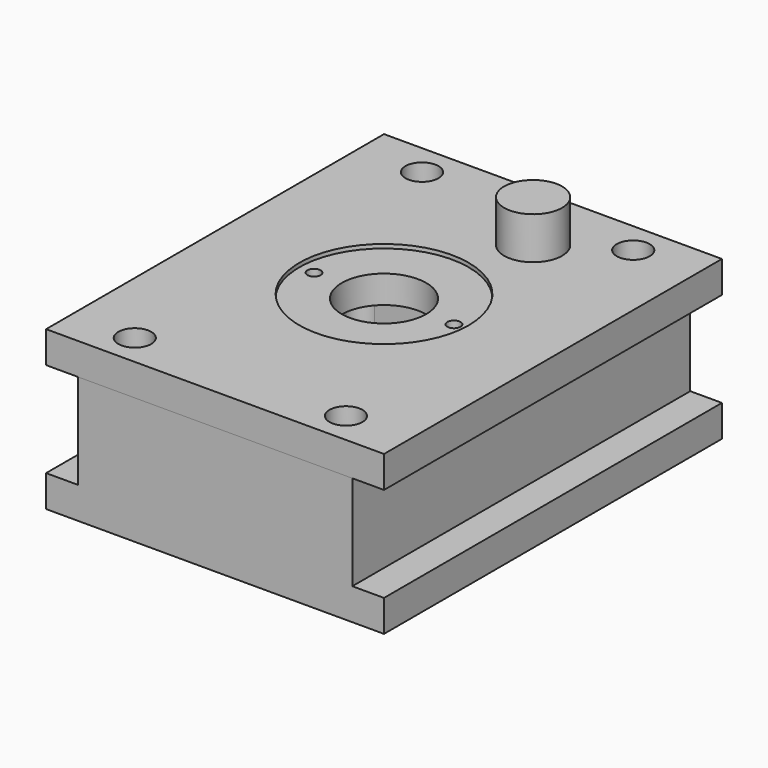
from build123d import *

# Parameters (mm, degrees)
F1_DEPTH        = 127
F3_DEPTH        = 76.2
F5_DEPTH        = 6.35
F6_W            = 203.2
F6_H            = 254
F16_DEPTH       = 19.05
F17_R           = 50.927
F7_DEPTH        = 2.38125
F8_R            = 25.4
F18_DEPTH       = 25.4
F19_D           = 6.35
F19_DEPTH       = 15.875
F19_CBORE_D     = 7.9375
F19_CBORE_DEPTH = 9.525
F19_TIP         = 1.9077324654
F11_D           = 13.49375
F11_CBORE_D     = 19.812
F11_CBORE_DEPTH = 12.954
F13_D           = 12.7
F13_DEPTH       = 19.05
F13_TIP         = 3.8154649308
F20_R           = 17.4385504091
F14_DEPTH       = 25.4


with BuildPart() as f1:
    # F0 (on Front) → F1 (new body, symmetric)
    with BuildSketch(Plane.XZ):
        Polygon((-101.6, 19.05), (-101.6, 0), (101.6, 0), (101.6, 19.05), (82.55, 19.05), (82.55, 76.2), (-82.55, 76.2), (-82.55, 19.05), align=None)
    extrude(amount=F1_DEPTH, both=True)

    # F2 (on face) → F3 (cut)
    with BuildSketch(Plane(origin=(0, 0, 0), x_dir=(1, 0, 0), z_dir=(0, 0, -1))):
        with BuildLine():
            Line((66.675, 76.2), (-66.675, 76.2))
            ThreePointArc((-66.675, 76.2), (-73.4101920908, 73.4101920908), (-76.2, 66.675))
            Line((-76.2, 66.675), (-76.2, -66.675))
            ThreePointArc((-76.2, -66.675), (-73.4101920908, -73.4101920908), (-66.675, -76.2))
            Line((-66.675, -76.2), (66.675, -76.2))
            ThreePointArc((66.675, -76.2), (73.4101920908, -73.4101920908), (76.2, -66.675))
            Line((76.2, -66.675), (76.2, 66.675))
            ThreePointArc((76.2, 66.675), (73.4101920908, 73.4101920908), (66.675, 76.2))
        make_face()
    extrude(amount=-F3_DEPTH, mode=Mode.SUBTRACT)

    # F4 (on face) → F5 (cut)
    with BuildSketch(Plane.XY.offset(76.2)):
        with BuildLine():
            ThreePointArc((76.2, 73.025), (73.4101920908, 79.7601920908), (66.675, 82.55))
            Line((66.675, 82.55), (-66.675, 82.55))
            ThreePointArc((-66.675, 82.55), (-73.4101920908, 79.7601920908), (-76.2, 73.025))
            Line((-76.2, 73.025), (-76.2, -73.025))
            ThreePointArc((-76.2, -73.025), (-73.4101920908, -79.7601920908), (-66.675, -82.55))
            Line((-66.675, -82.55), (66.675, -82.55))
            ThreePointArc((66.675, -82.55), (73.4101920908, -79.7601920908), (76.2, -73.025))
            Line((76.2, -73.025), (76.2, 73.025))
        make_face()
    extrude(amount=-F5_DEPTH, mode=Mode.SUBTRACT)

    # F13
    with Locations(Plane.XY.offset(76.2)):
        with Locations((-63.6740624905, 107.6357588172), (63.5, 107.95), (63.9280825853, -106.8166941404), (-63.5, -107.95)):
            Hole(F13_D / 2, depth=F13_DEPTH)
            with Locations((0, 0, -(F13_DEPTH + F13_TIP / 2))):  # 118° drill point
                Cone(0, F13_D / 2, F13_TIP, mode=Mode.SUBTRACT)


with BuildPart() as f16:
    # F6 (on face) → F16 (new body)
    with BuildSketch(Plane.XY.offset(76.2)):
        Rectangle(F6_W, F6_H)
    extrude(amount=F16_DEPTH)

    # F17 (on face) → F7 (cut)
    with BuildSketch(Plane.XY.offset(95.25)):
        Circle(F17_R)
    extrude(amount=-F7_DEPTH, mode=Mode.SUBTRACT)

    # F8 (on face) → F18 (cut)
    with BuildSketch(Plane.XY.offset(92.86875)):
        Circle(F8_R)
    extrude(amount=-F18_DEPTH, mode=Mode.SUBTRACT)

    # F19
    with Locations(Plane.XY.offset(92.86875)):
        with Locations((42.06875, 0), (-42.06875, 0)):
            CounterBoreHole(F19_D / 2, F19_CBORE_D / 2, F19_CBORE_DEPTH, depth=F19_DEPTH)
            with Locations((0, 0, -(F19_DEPTH + F19_TIP / 2))):  # 118° drill point
                Cone(0, F19_D / 2, F19_TIP, mode=Mode.SUBTRACT)

    # F11 (through all)
    with Locations(Plane.XY.offset(95.25)):
        with Locations((-63.5, 107.95), (63.5, 107.95), (63.5, -107.95), (-63.5, -107.95)):
            CounterBoreHole(F11_D / 2, F11_CBORE_D / 2, F11_CBORE_DEPTH)

    # F20 (on face) → F14 (join)
    with BuildSketch(Plane.XY.offset(95.25)):
        with Locations((23.5875044018, 82.6007351279)):
            Circle(F20_R)
    extrude(amount=F14_DEPTH)


solid = Compound([f1.part, f16.part])
